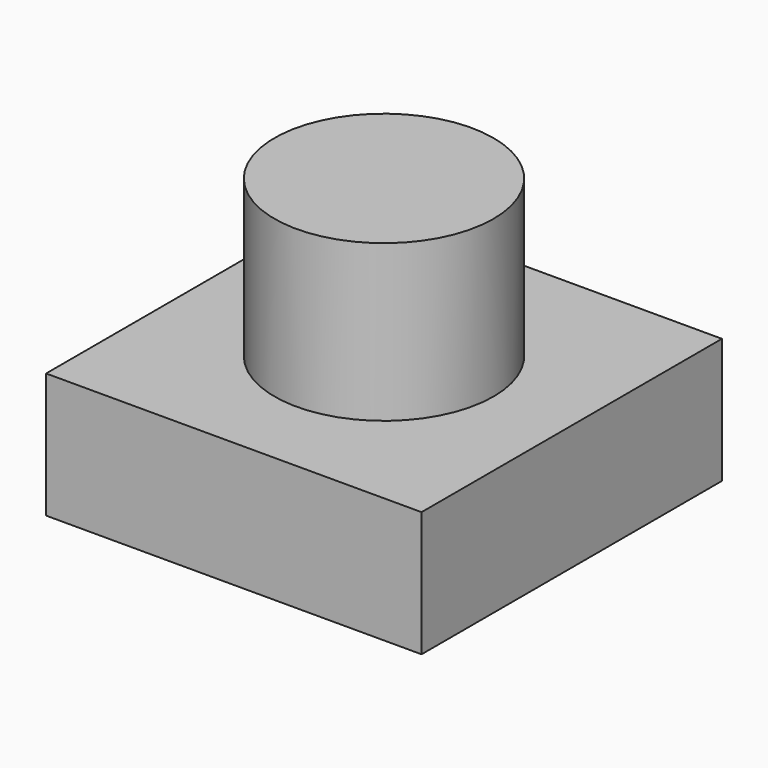
from build123d import *

# Parameters (mm, degrees)
BOX009_W          = 12
BOX009_H          = 12
BOX009_DEPTH      = 4
CYLINDER003_R     = 3.5
CYLINDER003_DEPTH = 5


with BuildPart() as obj1:
    # Box009 → Box009 (new body)
    with BuildSketch(Plane.XY):
        with Locations((6, 6)):
            Rectangle(BOX009_W, BOX009_H)
    extrude(amount=BOX009_DEPTH)


with BuildPart() as button:
    # Cylinder003 → Cylinder003 (new body)
    with BuildSketch(Plane(origin=(6, 6, 4), x_dir=(1, 0, 0), z_dir=(0, 0, 1))):
        Circle(CYLINDER003_R)
    extrude(amount=CYLINDER003_DEPTH)

    # Fusion001: union obj1
    add(obj1.part)


with BuildPart() as button_1:
    # Fusion001 placement: moved
    add(button.part.moved(Location((52, 92, 1.1))))


solid = button_1.part
